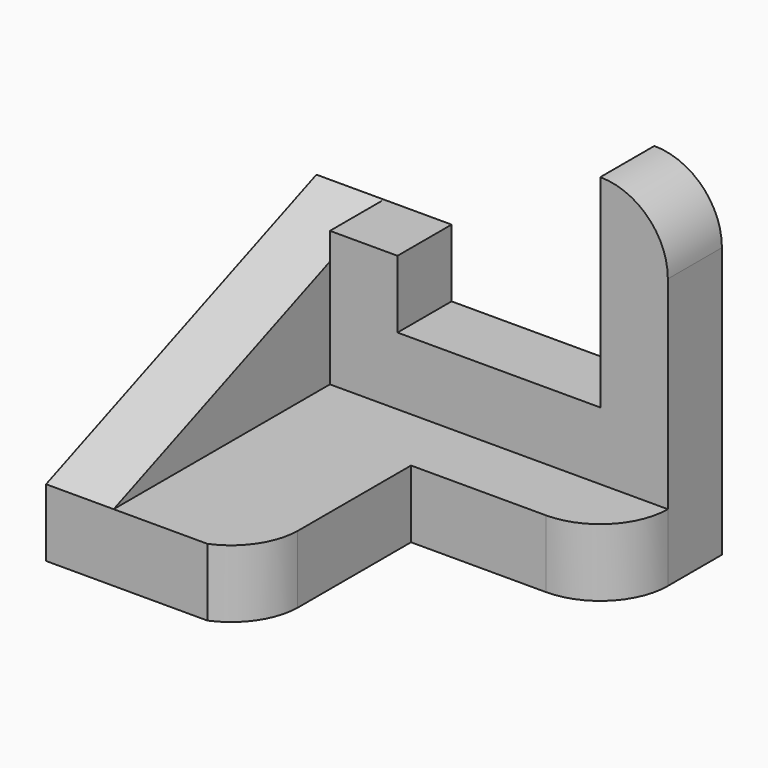
from build123d import *

# Parameters (mm, degrees)
F1_DEPTH  = 50
F3_DEPTH  = 40
F4_W      = 10
F4_H      = 10
F5_DEPTH  = 40
F7_DEPTH  = 10
F8_W      = 40
F8_H      = 30
F9_DEPTH  = 40
F11_DEPTH = 25
F12_W     = 30
F12_H     = 30
F13_DEPTH = 10
F15_DEPTH = 10


with BuildPart() as f1:
    # F0 (on Front) → F1 (new body)
    with BuildSketch(Plane.XZ):
        Polygon((0, 30), (0, 0), (60, 0), (60, 50), (50, 50), (50, 20), (20, 20), (20, 30), align=None)
    extrude(amount=F1_DEPTH)

    # F2 (on face) → F3 (cut)
    with BuildSketch(Plane.XZ.offset(50)):
        Polygon((10, 20), (10, 10), (60, 10), (60, 20), (50, 20), (20, 20), align=None)
    extrude(amount=-F3_DEPTH, mode=Mode.SUBTRACT)

    # F4 (on face) → F5 (cut)
    with BuildSketch(Plane.XZ.offset(50)):
        with Locations((15, 25)):
            Rectangle(F4_W, F4_H)
    extrude(amount=-F5_DEPTH, mode=Mode.SUBTRACT)

    # F6 (on face) → F7 (cut)
    with BuildSketch(Plane(origin=(0, 0, 0), x_dir=(0, -1, 0), z_dir=(-1, 0, 0))):
        Polygon((0, 30), (50, 10), (50, 30), align=None)
    extrude(amount=-F7_DEPTH, mode=Mode.SUBTRACT)

    # F8 (on face) → F9 (cut)
    with BuildSketch(Plane.YZ.offset(60)):
        with Locations((-30, 35)):
            Rectangle(F8_W, F8_H)
    extrude(amount=-F9_DEPTH, mode=Mode.SUBTRACT)

    # F10 (on face) → F11 (cut)
    with BuildSketch(Plane.XZ.offset(10)):
        with BuildLine():
            ThreePointArc((50, 50), (57.0710678119, 47.0710678119), (60, 40))
            Line((60, 40), (60, 50))
            Line((60, 50), (50, 50))
        make_face()
    extrude(amount=-F11_DEPTH, mode=Mode.SUBTRACT)

    # F12 (on face) → F13 (cut)
    with BuildSketch(Plane.XY.offset(10)):
        with Locations((45, -35)):
            Rectangle(F12_W, F12_H)
    extrude(amount=-F13_DEPTH, mode=Mode.SUBTRACT)

    # F14 (on face) → F15 (cut)
    with BuildSketch(Plane.XY.offset(10)):
        with BuildLine():
            ThreePointArc((60, -10), (57.0710678119, -17.0710678119), (50, -20))
            Line((50, -20), (60, -20))
            Line((60, -20), (60, -10))
        make_face()
        with BuildLine():
            Line((30, -50), (30, -40.9943062672))
            ThreePointArc((30, -40.9943062672), (28.2651766354, -46.407029811), (23.8608885556, -50))
            Line((23.8608885556, -50), (30, -50))
        make_face()
    extrude(amount=-F15_DEPTH, mode=Mode.SUBTRACT)


solid = f1.part
